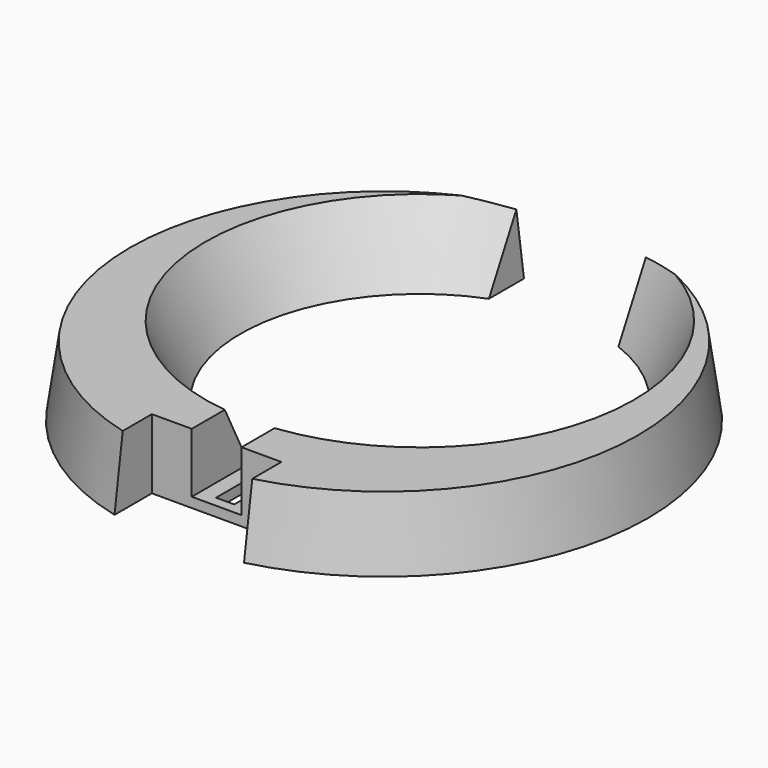
from build123d import *

# Parameters (mm, degrees)
F0_R      = 26.5
F2_R      = 25.5
F4_R      = 18
F3_R      = 21.5
F7_W      = 13
F7_H      = 32.7027017848
F8_DEPTH  = 25
F9_START  = 1
F9_DEPTH  = 24
F7_W_2    = 1.8262825906
F7_H_2    = 8.4616364911
F10_DEPTH = 25


with BuildPart() as f5:
    # F0 (on Top) → F5 section 0
    with BuildSketch(Plane.XY):
        Circle(F0_R)
    # F2 (on offset) → F5 section 1
    with BuildSketch(Plane.XY.offset(7)):
        Circle(F2_R)
    loft()

    # F4 (on Top) → F6 section 0
    with BuildSketch(Plane.XY):
        with Locations((0, 4.5)):
            Circle(F4_R)
    # F3 (on offset) → F6 section 1
    with BuildSketch(Plane.XY.offset(7)):
        with Locations((0, 4.5)):
            Circle(F3_R)
    loft(mode=Mode.SUBTRACT)

    # F7 (on Top) → F8 (cut)
    with BuildSketch(Plane.XY):
        with Locations((0, 16.3513508924)):
            Rectangle(F7_W, F7_H)
        Polygon((-6.5, -21), (-6.5, -30), (6.5, -30), (6.5, -21), (2.5, -21), (-2.5, -21), align=None)
    extrude(amount=F8_DEPTH, mode=Mode.SUBTRACT)

    # F7 (on Top) → F9 (cut)
    with BuildSketch(Plane.XY.offset(F9_START)):
        Polygon((-2.5, -11.4733194932), (-2.5, -21), (2.5, -21), (2.5, -11.4733194932), (0.9131412953, -11.4733194932), (0.9131412953, -19.9349559844), (-0.9131412953, -19.9349559844), (-0.9131412953, -11.4733194932), align=None)
    extrude(amount=F9_DEPTH, mode=Mode.SUBTRACT)

    # F7 (on Top) → F10 (cut)
    with BuildSketch(Plane.XY):
        with Locations((0, -15.7041377388)):
            Rectangle(F7_W_2, F7_H_2)
    extrude(amount=F10_DEPTH, mode=Mode.SUBTRACT)


solid = f5.part
